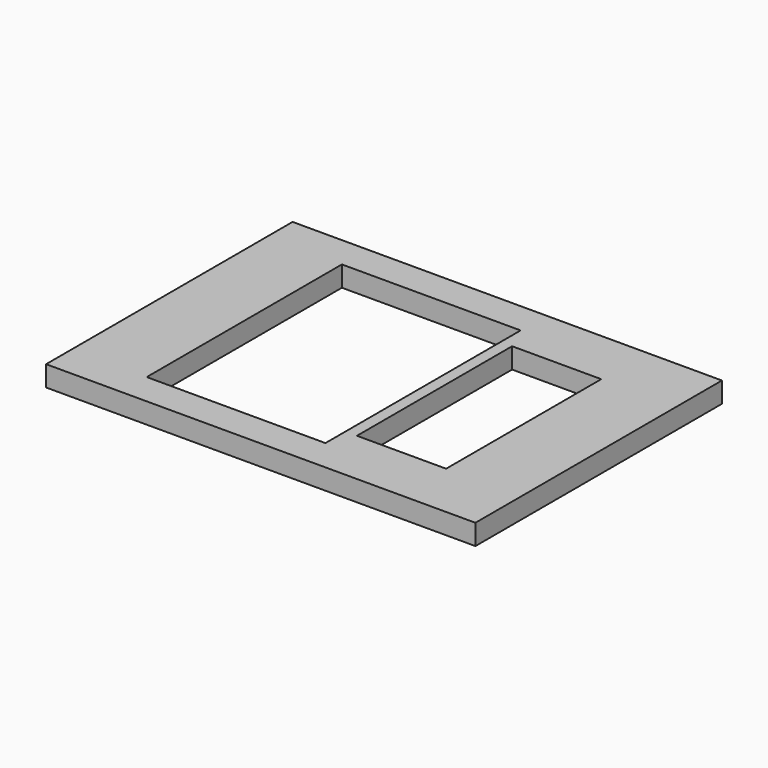
from build123d import *

# Parameters (mm, degrees)
F0_W     = 106.172
F0_H     = 76.2
F1_DEPTH = 5.08
F2_W     = 44.196
F2_H     = 30.1625
F2_W_2   = 22.0472
F2_H_2   = 23.9776
F3_DEPTH = 25.4


with BuildPart() as f1:
    # F0 (on Top) → F1 (new body)
    with BuildSketch(Plane.XY):
        with Locations((53.086, 38.1)):
            Rectangle(F0_W, F0_H)
    extrude(amount=F1_DEPTH)

    # F2 (on face) → F3 (cut)
    with BuildSketch(Plane.XY.offset(5.08)):
        with Locations((40.64, 53.18125)):
            Rectangle(F2_W, F2_H)
        with Locations((40.64, 23.01875)):
            Rectangle(F2_W, F2_H)
        with Locations((76.6064, 50.0888)):
            Rectangle(F2_W_2, F2_H_2)
        with Locations((76.6064, 26.1112)):
            Rectangle(F2_W_2, F2_H_2)
    extrude(amount=-F3_DEPTH, mode=Mode.SUBTRACT)


solid = f1.part
